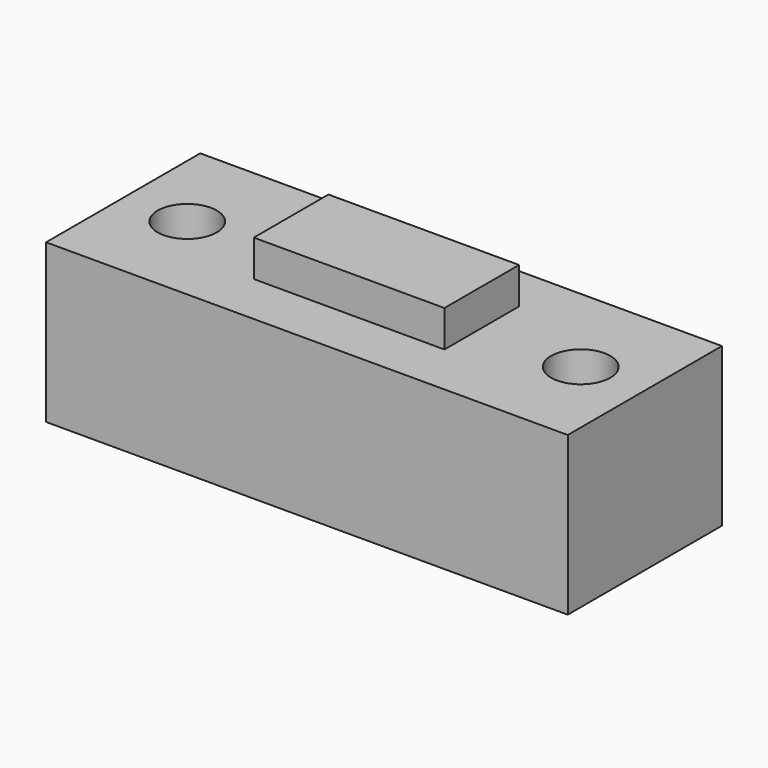
from build123d import *

# Parameters (mm, degrees)
F1_R     = 1.825
F1_W     = 5.875
F1_H     = 5.75
F2_DEPTH = 9.75
F3_DEPTH = 2.25
F4_R     = 2.975
F4_R_2   = 1.825
F5_DEPTH = 3


with BuildPart() as f2:
    # F1 (on Top) → F2 (new body)
    with BuildSketch(Plane.XY):
        Polygon((-7.875, 3.0625), (-7.875, 5.9375), (-16.075, 5.9375), (-16.075, -5.9375), (-7.875, -5.9375), (-7.875, -2.6875), (-5.875, -2.6875), (-5.875, 3.0625), align=None)
        with Locations((-12.125, 0)):
            Circle(F1_R, mode=Mode.SUBTRACT)
        with Locations((-2.9375, 0.1875)):
            Rectangle(F1_W, F1_H)
        Polygon((-7.875, -5.9375), (0, -5.9375), (0, -2.6875), (-5.875, -2.6875), (-7.875, -2.6875), align=None)
        Polygon((0, -5.9375), (7.875, -5.9375), (7.875, -2.6875), (5.875, -2.6875), (0, -2.6875), align=None)
        Polygon((0, 3.0625), (0, 5.9375), (-7.875, 5.9375), (-7.875, 3.0625), (-5.875, 3.0625), align=None)
        Polygon((7.875, 3.0625), (7.875, 5.9375), (0, 5.9375), (0, 3.0625), (5.875, 3.0625), align=None)
        with Locations((2.9375, 0.1875)):
            Rectangle(F1_W, F1_H)
        Polygon((16.075, -5.9375), (16.075, 5.9375), (7.875, 5.9375), (7.875, 3.0625), (5.875, 3.0625), (5.875, -2.6875), (7.875, -2.6875), (7.875, -5.9375), align=None)
        with Locations((12.125, 0)):
            Circle(F1_R, mode=Mode.SUBTRACT)
    extrude(amount=-F2_DEPTH)

    # F1 (on Top) → F3 (join)
    with BuildSketch(Plane.XY):
        with Locations((-2.9375, 0.1875)):
            Rectangle(F1_W, F1_H)
        with Locations((2.9375, 0.1875)):
            Rectangle(F1_W, F1_H)
    extrude(amount=F3_DEPTH)

    # F4 (on face) → F5 (cut)
    with BuildSketch(Plane(origin=(0, 0, -9.75), x_dir=(1, 0, 0), z_dir=(0, 0, -1))):
        with Locations((12.125, 0)):
            Circle(F4_R)
        with Locations((12.125, 0)):
            Circle(F4_R_2, mode=Mode.SUBTRACT)
        with Locations((-12.125, 0)):
            Circle(F4_R)
        with Locations((-12.125, 0)):
            Circle(F4_R_2, mode=Mode.SUBTRACT)
        with Locations((12.125, 0)):
            Circle(F4_R_2)
        with Locations((-12.125, 0)):
            Circle(F4_R_2)
    extrude(amount=-F5_DEPTH, mode=Mode.SUBTRACT)


solid = f2.part
